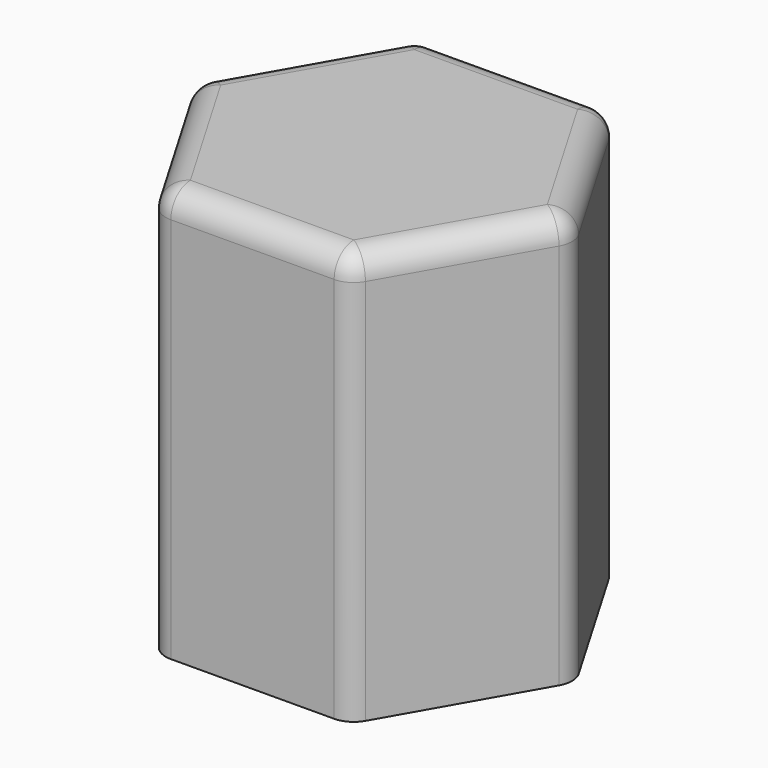
from build123d import *

# Parameters (mm, degrees)
F1_DEPTH = 50
F2_R     = 3


with BuildPart() as f1:
    # F0 (on Top) → F1 (new body)
    with BuildSketch(Plane.XY):
        Polygon((-15.243491, -32.599138), (-26.965457, -12.548407), (-50.190882, -12.674562), (-61.694341, -32.851448), (-49.972375, -52.902179), (-26.74695, -52.776024), align=None)
    extrude(amount=F1_DEPTH)

    # F2
    f2_edges = [f1.edges().sort_by_distance(p)[0] for p in [
        (-38.578169, -12.611485, 50),
        (-55.942612, -22.763005, 50),
        (-55.833358, -42.876814, 50),
        (-21.104474, -22.573773, 50),
        (-38.359663, -52.839102, 50),
        (-20.99522, -42.687581, 50),
        (-50.190882, -12.674562, 25),
        (-61.694341, -32.851448, 25),
        (-26.965457, -12.548407, 25),
        (-15.243491, -32.599138, 25),
        (-26.74695, -52.776024, 25),
        (-49.972375, -52.902179, 25),
    ]]
    fillet(f2_edges, radius=F2_R)


solid = f1.part
